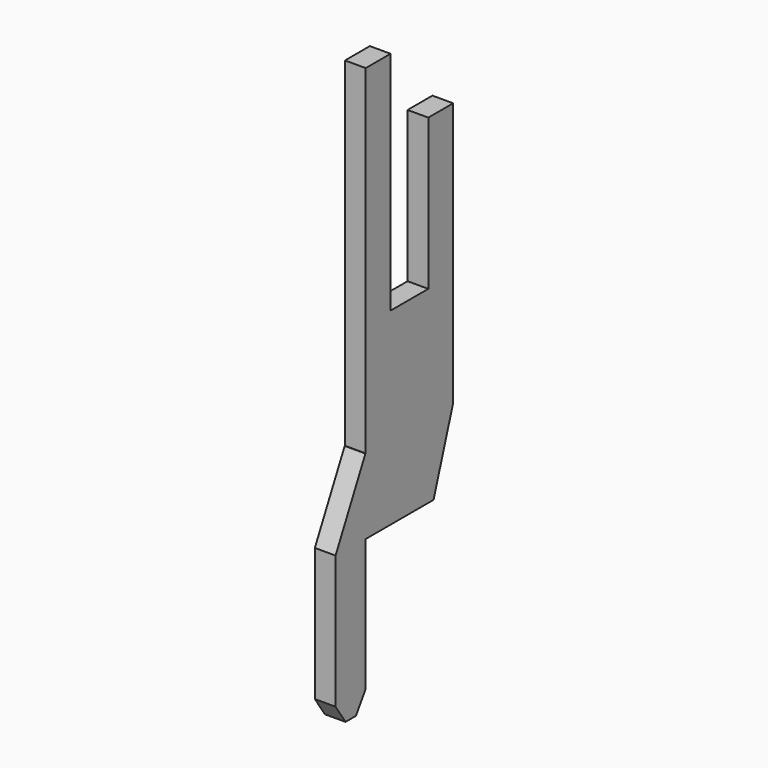
from build123d import *

# Parameters (mm, degrees)
BOX061_W                = 2.9
BOX061_H                = 0.55
BOX061_DEPTH            = 15
BOX062_W                = 1.25
BOX062_H                = 0.55
BOX062_DEPTH            = 6
BOX063_W                = 1.1
BOX063_H                = 0.6
BOX063_DEPTH            = 2
BOX065_W                = 1
BOX065_H                = 0.55
BOX065_DEPTH            = 6
BOX064_W                = 3
BOX064_H                = 0.55
BOX064_DEPTH            = 4
CHAMFER026_SIZE2        = 0.65
CHAMFER026_SIZE         = 2
CHAMFER027_ANGLE        = 33
CHAMFER027_SIZE         = 0.5
CHAMFER029_ANGLE        = 56
CHAMFER029_SIZE         = 0.33
CHAMFER028_ANGLE        = 26.565
CHAMFER028_SIZE         = 1.98
BODY027_PLACEMENT_ANGLE = 90


with BuildPart() as part:
    # Box061 → Box061 (join)
    with BuildSketch(Plane(origin=(-4.95, -0.275, 0), x_dir=(1, 0, 0), z_dir=(0, 0, 1))):
        with Locations((1.45, 0.275)):
            Rectangle(BOX061_W, BOX061_H)
    extrude(amount=BOX061_DEPTH)

    # Box062 → Box062 (cut)
    with BuildSketch(Plane(origin=(-4.125, -0.275, 9), x_dir=(1, 0, 0), z_dir=(0, 0, 1))):
        with Locations((0.625, 0.275)):
            Rectangle(BOX062_W, BOX062_H)
    extrude(amount=BOX062_DEPTH, mode=Mode.SUBTRACT)

    # Box063 → Box063 (cut)
    with BuildSketch(Plane(origin=(-3, -0.3, 13), x_dir=(1, 0, 0), z_dir=(0, 0, 1))):
        with Locations((0.55, 0.3)):
            Rectangle(BOX063_W, BOX063_H)
    extrude(amount=BOX063_DEPTH, mode=Mode.SUBTRACT)

    # Box065 → Box065 (join)
    with BuildSketch(Plane(origin=(-5.95, -0.275, 0), x_dir=(1, 0, 0), z_dir=(0, 0, 1))):
        with Locations((0.5, 0.275)):
            Rectangle(BOX065_W, BOX065_H)
    extrude(amount=BOX065_DEPTH)

    # Box064 → Box064 (cut)
    with BuildSketch(Plane(origin=(-4.95, 0.275, 4), x_dir=(1, 0, 0), z_dir=(0, 0, -1))):
        with Locations((1.5, 0.275)):
            Rectangle(BOX064_W, BOX064_H)
    extrude(amount=BOX064_DEPTH, mode=Mode.SUBTRACT)

    # Chamfer026
    chamfer026_edges = [part.edges().sort_by_distance(p)[0] for p in [
        (-2.05, 0, 4),
    ]]
    chamfer026_side = part.faces().sort_by_distance((-2.05, 0, 8.5))[0]
    chamfer(chamfer026_edges, length=CHAMFER026_SIZE, length2=CHAMFER026_SIZE2, reference=chamfer026_side)

    # Chamfer027
    chamfer027_edges = [part.edges().sort_by_distance(p)[0] for p in [
        (-4.95, 0, 0),
    ]]
    chamfer027_side = part.faces().sort_by_distance((-4.95, 0, 2))[0]
    chamfer(chamfer027_edges, length=CHAMFER027_SIZE, angle=CHAMFER027_ANGLE, reference=chamfer027_side)

    # Chamfer029
    chamfer029_edges = [part.edges().sort_by_distance(p)[0] for p in [
        (-5.95, 0, 0),
    ]]
    chamfer029_side = part.faces().sort_by_distance((-5.612352, 0, 0))[0]
    chamfer(chamfer029_edges, length=CHAMFER029_SIZE, angle=CHAMFER029_ANGLE, reference=chamfer029_side)

    # Chamfer028
    chamfer028_edges = [part.edges().sort_by_distance(p)[0] for p in [
        (-5.95, 0, 6),
    ]]
    chamfer028_side = part.faces().sort_by_distance((-5.95, 0, 3.244623))[0]
    chamfer(chamfer028_edges, length=CHAMFER028_SIZE, angle=CHAMFER028_ANGLE, reference=chamfer028_side)


with BuildPart() as part_1:
    # Body027 placement: moved
    add(part.part.moved(Location((0, 0, -4))).rotate(Axis((0, 0, -4), (0, 0, 1)), BODY027_PLACEMENT_ANGLE))


solid = part_1.part
